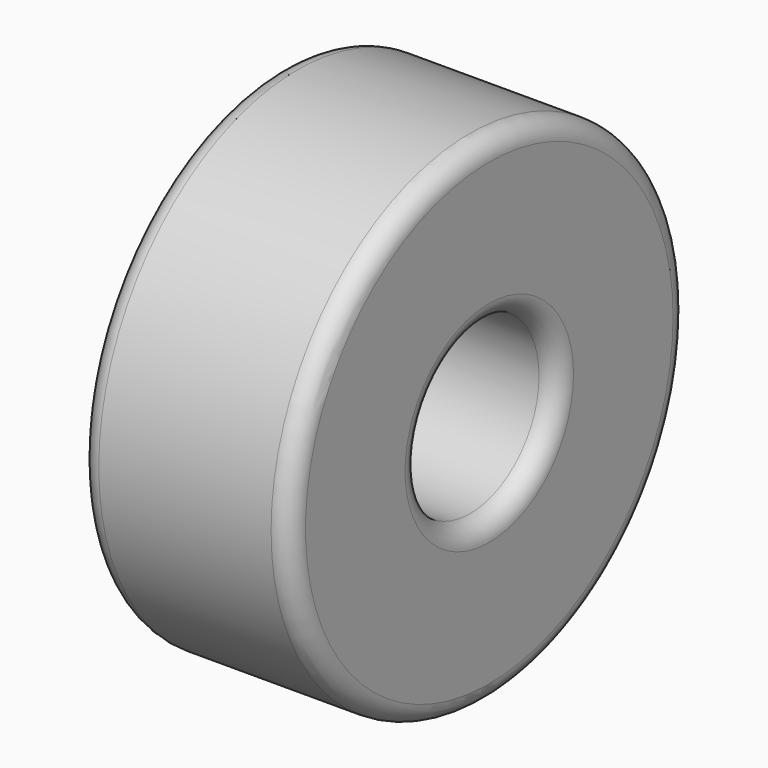
from build123d import *

# Parameters (mm, degrees)
F0_R     = 65
F0_R_2   = 22.5
F1_DEPTH = 55
F2_R     = 5


with BuildPart() as f1:
    # F0 (on Right) → F1 (new body)
    with BuildSketch(Plane.YZ):
        Circle(F0_R)
        Circle(F0_R_2, mode=Mode.SUBTRACT)
    extrude(amount=F1_DEPTH)

    # F2
    f2_edges = [f1.edges().sort_by_distance(p)[0] for p in [
        (27.5, 65, 0),
        (0, -65, 0),
        (55, -65, 0),
        (27.5, 22.5, 0),
        (0, -22.5, 0),
        (55, -22.5, 0),
    ]]
    fillet(f2_edges, radius=F2_R)


solid = f1.part
